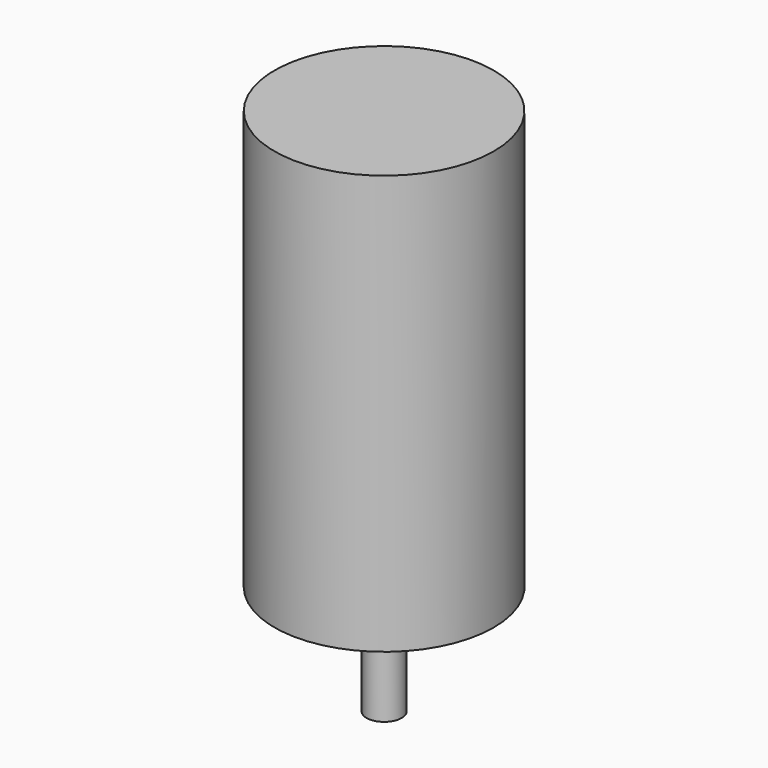
from build123d import *

# Parameters (mm, degrees)
F0_R     = 12.5
F1_DEPTH = 47.8
F2_R     = 3.5
F3_DEPTH = 2.5
F4_R     = 2
F5_DEPTH = 12.5
F7_DEPTH = 8


with BuildPart() as f1:
    # F0 (on Top) → F1 (new body)
    with BuildSketch(Plane.XY):
        Circle(F0_R)
    extrude(amount=F1_DEPTH)

    # F2 (on face) → F3 (join)
    with BuildSketch(Plane(origin=(0, 0, 0), x_dir=(1, 0, 0), z_dir=(0, 0, -1))):
        Circle(F2_R)
    extrude(amount=F3_DEPTH)

    # F4 (on face) → F5 (join)
    with BuildSketch(Plane(origin=(0, 0, 0), x_dir=(1, 0, 0), z_dir=(0, 0, -1))):
        Circle(F4_R)
    extrude(amount=F5_DEPTH)

    # F6 (on face) → F7 (cut)
    with BuildSketch(Plane(origin=(0, 0, -12.5), x_dir=(1, 0, 0), z_dir=(0, 0, -1))):
        with BuildLine():
            ThreePointArc((-1.322876, -1.5), (0, -2), (1.322876, -1.5))
            Line((1.322876, -1.5), (-1.322876, -1.5))
        make_face()
    extrude(amount=-F7_DEPTH, mode=Mode.SUBTRACT)


solid = f1.part
